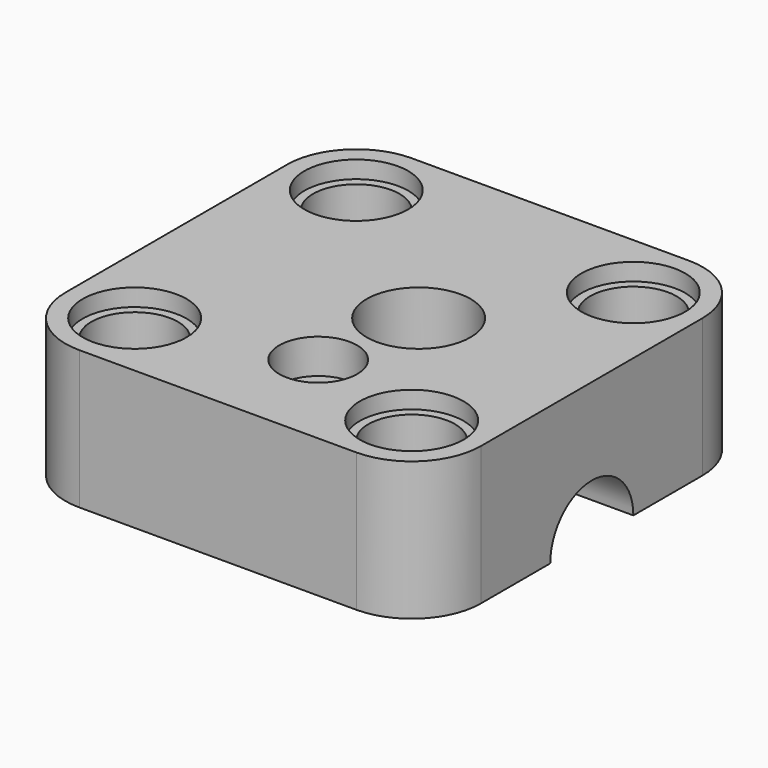
from build123d import *

# Parameters (mm, degrees)
SKETCH_W        = 24
SKETCH_H        = 24
SKETCH_R        = 2.5
SKETCH_R_2      = 1.1
PAD_DEPTH       = 8
SKETCH001_R     = 3
POCKET_DEPTH    = 1
SKETCH002_R     = 3
POCKET001_DEPTH = 10
SKETCH003_R     = 3
POCKET002_DEPTH = 8
FILLET_R        = 4
SKETCH004_R     = 2.25
POCKET003_DEPTH = 2
SKETCH005_R     = 3
POCKET004_DEPTH = 1


with BuildPart() as part:
    # Sketch → Pad (new body)
    with BuildSketch(Plane.XY):
        Rectangle(SKETCH_W, SKETCH_H)
        with Locations((-8, 8)):
            Circle(SKETCH_R, mode=Mode.SUBTRACT)
        with Locations((8, 8)):
            Circle(SKETCH_R, mode=Mode.SUBTRACT)
        with Locations((-8, -8)):
            Circle(SKETCH_R, mode=Mode.SUBTRACT)
        with Locations((8, -8)):
            Circle(SKETCH_R, mode=Mode.SUBTRACT)
        with Locations((1, -6)):
            Circle(SKETCH_R_2, mode=Mode.SUBTRACT)
    extrude(amount=PAD_DEPTH)

    # Sketch001 (on Face10 of Pad) → Pocket (cut)
    with BuildSketch(Plane(origin=(0, 0, 0), x_dir=(1, 0, 0), z_dir=(0, 0, -1))):
        with Locations((-8, 8)):
            Circle(SKETCH001_R)
        with Locations((8, 8)):
            Circle(SKETCH001_R)
        with Locations((8, -8)):
            Circle(SKETCH001_R)
        with Locations((-8, -8)):
            Circle(SKETCH001_R)
    extrude(amount=-POCKET_DEPTH, mode=Mode.SUBTRACT)

    # Sketch002 (on Face6 of Pocket) → Pocket001 (cut)
    with BuildSketch(Plane.YZ.offset(12)):
        Circle(SKETCH002_R)
    extrude(amount=-POCKET001_DEPTH, mode=Mode.SUBTRACT)

    # Sketch003 (on Face4 of Pocket001) → Pocket002 (cut)
    with BuildSketch(Plane(origin=(0, 0, 0), x_dir=(1, 0, 0), z_dir=(0, 0, -1))):
        with Locations((2, 0)):
            Circle(SKETCH003_R)
    extrude(amount=-POCKET002_DEPTH, mode=Mode.SUBTRACT)

    # Fillet
    fillet_edges = [part.edges().sort_by_distance(p)[0] for p in [
        (12, 12, 4),
        (12, -12, 4),
        (-12, -12, 4),
        (-12, 12, 4),
    ]]
    fillet(fillet_edges, radius=FILLET_R)

    # Sketch004 (on Face5 of Fillet) → Pocket003 (cut)
    with BuildSketch(Plane.XY.offset(8)):
        with Locations((1, -6)):
            Circle(SKETCH004_R)
    extrude(amount=-POCKET003_DEPTH, mode=Mode.SUBTRACT)

    # Sketch005 (on Face5 of Pocket003) → Pocket004 (cut)
    with BuildSketch(Plane.XY.offset(8)):
        with Locations((8, 8)):
            Circle(SKETCH005_R)
        with Locations((-8, -8)):
            Circle(SKETCH005_R)
        with Locations((8, -8)):
            Circle(SKETCH005_R)
        with Locations((-8, 8)):
            Circle(SKETCH005_R)
    extrude(amount=-POCKET004_DEPTH, mode=Mode.SUBTRACT)


solid = part.part
